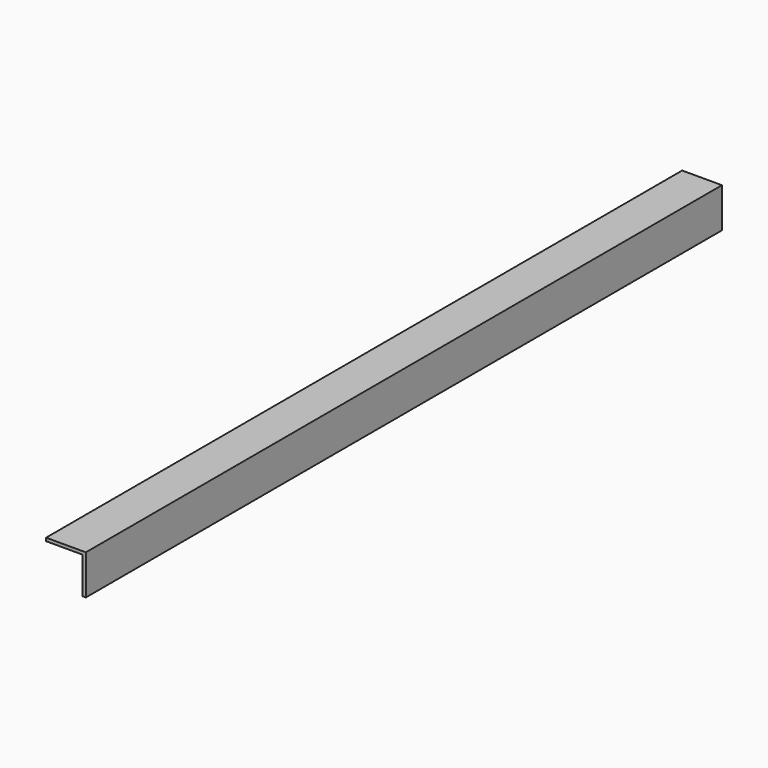
from build123d import *


with BuildPart() as f2:
    # F2: sweep along a path in F0
    with BuildLine(Plane.XY) as f2_path:
        Line((0, 399.9603311834), (0, -399.9603311834))
    # F1 (on Front) → F2 (sweep)
    with BuildSketch(Plane.XZ):
        Polygon((20, -40), (20, 0), (-20, 0), (-20, -3.175), (16.825, -3.175), (16.825, -40), align=None)
    sweep(path=f2_path.line)


solid = f2.part
